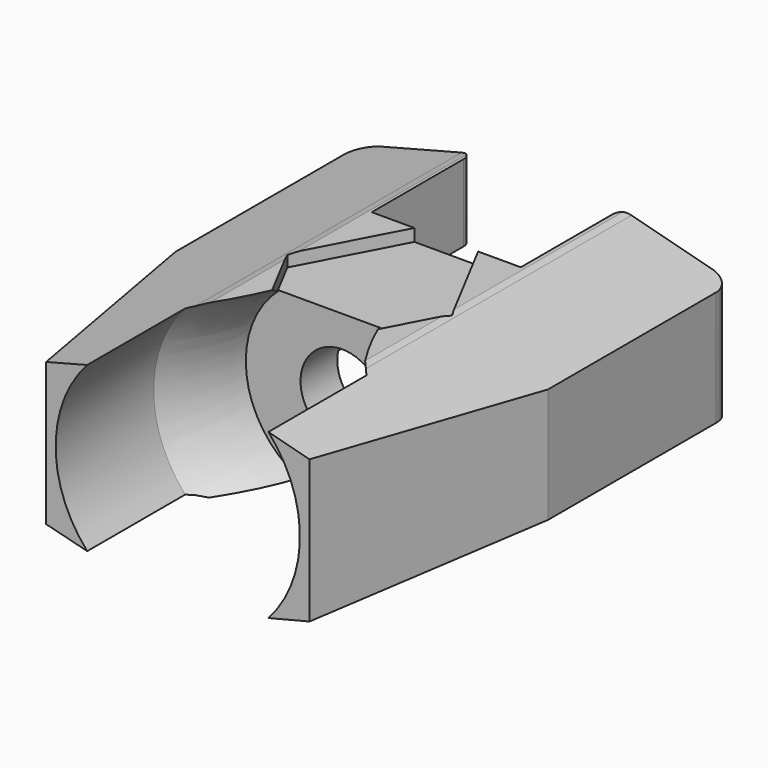
from build123d import *

# Parameters (mm, degrees)
PAD_DEPTH       = 12
POCKET_DEPTH    = 62
SKETCH019_W     = 31
SKETCH019_H     = 21.780884
POCKET002_DEPTH = 17
SKETCH020_R     = 2
POCKET003_DEPTH = 4
CYLINDER_R      = 4
CYLINDER_DEPTH  = 28
POCKET032_DEPTH = 5
SKETCH084_W     = 7.885986
SKETCH084_H     = 7.189331
PAD020_DEPTH    = 0.5
POCKET038_DEPTH = 100


with BuildPart() as part:
    # Sketch010 → Pad (new body, symmetric)
    with BuildSketch(Plane.XY):
        with BuildLine():
            Line((12.639868, 59.984547), (-12.639868, 59.984547))
            Line((-12.639868, 59.984547), (-17.867889, 82.058411))
            Line((-17.867889, 82.058411), (-17.867889, 102.222236))
            ThreePointArc((-15.867889, 104.222236), (-17.282103, 103.63645), (-17.867889, 102.222236))
            Line((-15.867889, 104.222236), (-8.154342, 104.222236))
            ThreePointArc((-7.154342, 103.222236), (-7.447235, 103.929343), (-8.154342, 104.222236))
            Line((-7.154342, 103.222236), (-7.154342, 92.189331))
            Line((-7.154342, 92.189331), (7.154342, 92.189331))
            Line((7.154342, 92.189331), (7.154342, 103.222236))
            ThreePointArc((8.154342, 104.222236), (7.447235, 103.929343), (7.154342, 103.222236))
            Line((8.154342, 104.222236), (15.867889, 104.222236))
            ThreePointArc((17.867889, 102.222236), (17.282103, 103.63645), (15.867889, 104.222236))
            Line((17.867889, 102.222236), (17.867889, 82.058411))
            Line((17.867889, 82.058411), (12.639868, 59.984547))
        make_face()
    extrude(amount=PAD_DEPTH, both=True)

    # Sketch011 → Pocket (cut)
    with BuildSketch(Plane.XZ.offset(-54)):
        Polygon((0, 13.813917), (-22.117895, 13.813917), (-22.117895, -0.189388), (-22.117895, -17.743416), (0, -17.743416), (22.658901, -17.743416), (22.658901, -0.111897), (22.658901, 13.813917), align=None)
        Polygon((-18.596464, 0), (-18.596464, 5.287208), (-8.154342, 8), (-7.443202, 8.179805), (0, 8.179805), (7.519913, 8.179805), (8.154342, 8), (18.531284, 5.287208), (18.531284, -0.112287), (18.531284, -5.399495), (8.154342, -8), (7.554242, -8.253323), (0.11104, -8.253323), (-7.443202, -8.253323), (-8.154342, -8), (-18.596464, -5.371119), align=None, mode=Mode.SUBTRACT)
    extrude(amount=-POCKET_DEPTH, mode=Mode.SUBTRACT)

    # Sketch019 → Pocket002 (cut)
    with BuildSketch(Plane.XY.offset(0.8)):
        with Locations((0.01352, 95.005211)):
            Rectangle(SKETCH019_W, SKETCH019_H)
    extrude(amount=-POCKET002_DEPTH, mode=Mode.SUBTRACT)

    # Sketch020 → Pocket003 (cut)
    with BuildSketch(Plane.XY.offset(0.8)):
        with Locations((-11.1, 94.9)):
            Circle(SKETCH020_R)
        with Locations((11.3, 94.9)):
            Circle(SKETCH020_R)
        with Locations((0.013518, 88.3)):
            Circle(SKETCH020_R)
    extrude(amount=POCKET003_DEPTH, mode=Mode.SUBTRACT)

    # Cylinder → Cylinder (cut)
    with BuildSketch(Plane.XZ.offset(-85)):
        Circle(CYLINDER_R)
    extrude(amount=CYLINDER_DEPTH, mode=Mode.SUBTRACT)

    # Sketch067 → Pocket032 (cut)
    with BuildSketch(Plane.XY.offset(7)):
        Polygon((-7.9, 83), (0, 68), (7.9, 83), (0, 98), align=None)
    extrude(amount=POCKET032_DEPTH, mode=Mode.SUBTRACT)

    # Sketch084 → Pad020 (join)
    with BuildSketch(Plane.XY.offset(0.8)):
        with Locations((-0.023809, 88.594665)):
            Rectangle(SKETCH084_W, SKETCH084_H)
    extrude(amount=PAD020_DEPTH)

    # Sketch085 → Groove (revolve, cut)
    with BuildSketch(Plane.XY):
        with BuildLine():
            ThreePointArc((9.252061, 79.708405), (10.164814, 75.624968), (11.720768, 71.740822))
            Line((11.720768, 71.740822), (11.720768, 58.4589))
            Line((11.720768, 58.4589), (0, 58.4589))
            Line((0, 58.4589), (0, 79.708405))
            Line((9.252061, 79.708405), (0, 79.708405))
        make_face()
    revolve(axis=Axis((0, 0, 0), (0, 1, 0)), mode=Mode.SUBTRACT)

    # Sketch089 → Pocket038 (cut)
    with BuildSketch(Plane.XZ):
        Polygon((-2.5, 0.8), (0, 3.3), (2.5, 0.8), align=None)
    extrude(amount=-POCKET038_DEPTH, mode=Mode.SUBTRACT)


solid = part.part
